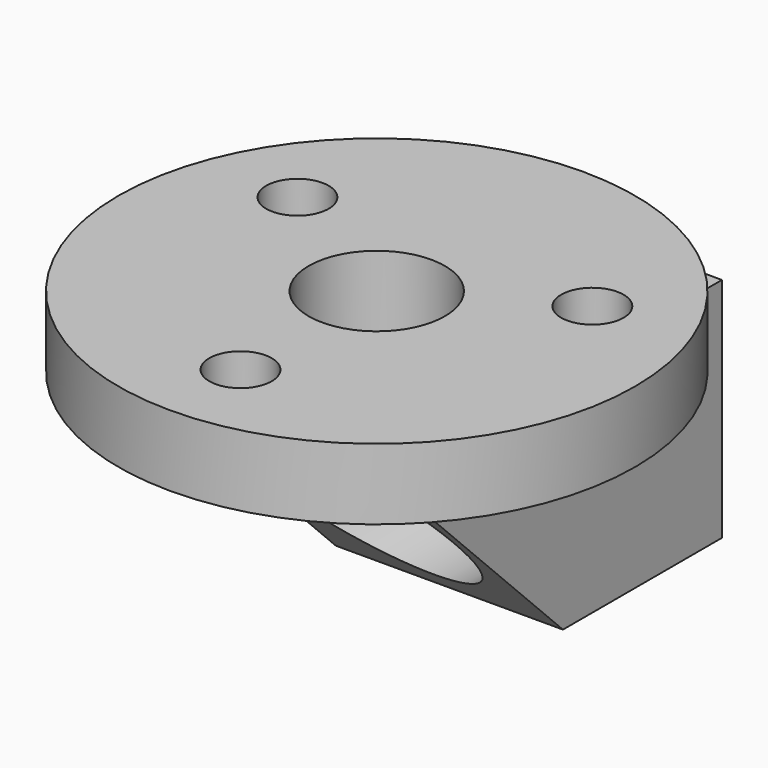
from build123d import *

# Parameters (mm, degrees)
SKETCH039_R             = 9.1
PAD024_DEPTH            = 2.5
SKETCH038_R             = 1.1
SKETCH038_R_2           = 2.4
POCKET038_DEPTH         = 2.5
SKETCH040_W             = 8
SKETCH040_H             = 15
PAD025_DEPTH            = 8
POCKET039_DEPTH         = 8
SKETCH042_R             = 2.4
POCKET040_DEPTH         = 8
SKETCH043_R             = 3.6
POCKET041_DEPTH         = 20
BODY015_PLACEMENT_ANGLE = 180


with BuildPart() as part:
    # Sketch039 → Pad024 (new body)
    with BuildSketch(Plane.XY):
        Circle(SKETCH039_R)
    extrude(amount=PAD024_DEPTH)

    # Sketch038 (on Face3 of Pad024) → Pocket038 (cut)
    with BuildSketch(Plane.XY.offset(2.5)):
        with Locations((0, 6)):
            Circle(SKETCH038_R)
        with Locations((5.195, -3.001995)):
            Circle(SKETCH038_R)
        with Locations((-5.195, -3.001995)):
            Circle(SKETCH038_R)
        Circle(SKETCH038_R_2)
    extrude(amount=-POCKET038_DEPTH, mode=Mode.SUBTRACT)

    # Sketch040 (on Face2 of Pocket038) → Pad025 (join)
    with BuildSketch(Plane(origin=(0, 0, 0), x_dir=(1, 0, 0), z_dir=(0, 0, -1))):
        with Locations((0, 2.7)):
            Rectangle(SKETCH040_W, SKETCH040_H)
    extrude(amount=PAD025_DEPTH)

    # Sketch041 (on Face7 of Pad025) → Pocket039 (cut)
    with BuildSketch(Plane(origin=(-4, 0, 0), x_dir=(0, -1, 0), z_dir=(-1, 0, 0))):
        Polygon((-4.8, 0), (3.2, -8), (-4.8, -8), align=None)
    extrude(amount=-POCKET039_DEPTH, mode=Mode.SUBTRACT)

    # Sketch042 (on Face14 of Pocket039) → Pocket040 (cut)
    with BuildSketch(Plane.XY):
        Circle(SKETCH042_R)
    extrude(amount=-POCKET040_DEPTH, mode=Mode.SUBTRACT)

    # Sketch043 (on Face11 of Pocket040) → Pocket041 (cut)
    with BuildSketch(Plane.XZ.offset(10.2)):
        with Locations((0, -3.7)):
            Circle(SKETCH043_R)
    extrude(amount=-POCKET041_DEPTH, mode=Mode.SUBTRACT)


with BuildPart() as part_1:
    # Body015 placement: moved
    add(part.part.moved(Location((81.5, -70, 9.25))).rotate(Axis((81.5, -70, 9.25), (0, 0, 1)), BODY015_PLACEMENT_ANGLE))


solid = part_1.part
